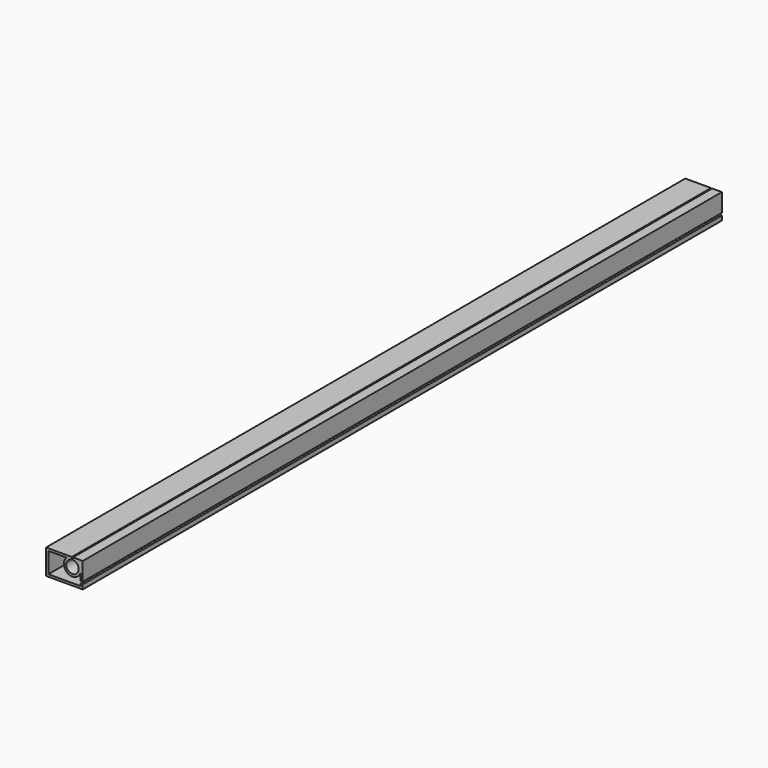
from build123d import *

# Parameters (mm, degrees)
F2_DEPTH = 1910
F7_DEPTH = 700
F9_DEPTH = 2000


with BuildPart() as f2:
    # F1 (on Front) → F2 (new body)
    with BuildSketch(Plane.XZ):
        with BuildLine():
            Line((7.5, 37.974085065), (7.5, 40))
            Line((7.5, 40), (-15, 40))
            Line((-15, 40), (-15, 37))
            Line((-15, 37), (-15, 31))
            Line((-15, 31), (-15, 29))
            Line((-15, 29), (-15, 26))
            Line((-15, 26), (-15, 24))
            Line((-15, 24), (-13, 24))
            Line((-13, 24), (-11, 24))
            Line((-11, 24), (-11, 26))
            Line((-11, 26), (-9, 26))
            Line((-9, 26), (-9, 20))
            Line((-9, 20), (-11, 20))
            Line((-11, 20), (-11, 22))
            Line((-11, 22), (-15, 22))
            Line((-15, 22), (-15, 18))
            Line((-15, 18), (-15, 7.7))
            Line((-15, 7.7), (-13, 7.7))
            Line((-13, 7.7), (-13, 11.4920835048))
            Line((-13, 11.4920835048), (-7, 11.4920835048))
            Line((-7, 11.4920835048), (-7, 3.7))
            Line((-7, 3.7), (-11, 3.7))
            Line((-11, 3.7), (-11, 5.7))
            Line((-11, 5.7), (-15, 5.7))
            Line((-15, 5.7), (-15, 3))
            Line((-15, 3), (-15, 0))
            Line((-15, 0), (-13, 0))
            Line((-13, 0), (-12, 0))
            Line((-12, 0), (-5, 0))
            Line((-5, 0), (-5, 13.4920835048))
            Line((-5, 13.4920835048), (-7, 13.4920835048))
            Line((-7, 13.4920835048), (-9.1588944197, 13.4920835048))
            Line((-9.1588944197, 13.4920835048), (-9.1588944197, 15.4920835048))
            Line((-9.1588944197, 15.4920835048), (1.5, 20))
            Line((1.5, 20), (10.8411055803, 15.4920835048))
            Line((10.8411055803, 15.4920835048), (10.8411055803, 13.4920835048))
            Line((10.8411055803, 13.4920835048), (8, 13.4920835048))
            Line((8, 13.4920835048), (8, 0))
            Line((8, 0), (17, 0))
            Line((17, 0), (17, 40))
            Line((17, 40), (8.5, 40))
            Line((8.5, 40), (8.5, 37.974085065))
            ThreePointArc((8.5, 37.974085065), (11.5604089792, 36.6859489396), (13.3185590744, 33.8691589154))
            Line((13.3185590744, 33.8691589154), (13.4318527537, 31.7073867348))
            ThreePointArc((13.4318527537, 31.7073867348), (4.0126863822, 28.7323088758), (7.5, 37.974085065))
        make_face()
        Polygon((-8.3634709733, 18), (-11.1588944197, 16.817744602), (-11.1588944197, 15.4920835048), (-11.1588944197, 13.4920835048), (-13, 13.4920835048), (-13, 18), align=None, mode=Mode.SUBTRACT)
        with BuildLine():
            Line((-13, 34), (-13, 37.9999987781))
            Line((-13, 37.9999987781), (2.9081163149, 37.9999987781))
            ThreePointArc((2.9081163149, 37.9999987781), (3.810445381, 26.2974906682), (15, 29.8410427327))
            Line((15, 29.8410427327), (15, 2))
            Line((15, 2), (10, 2))
            Line((10, 2), (10, 12))
            Line((10, 12), (12.8411055803, 12))
            Line((12.8411055803, 12), (12.8411055803, 16.7476188273))
            Line((12.8411055803, 16.7476188273), (1.5543358685, 22.194491783))
            Line((1.5543358685, 22.194491783), (-7, 18.5766464184))
            Line((-7, 18.5766464184), (-7, 28))
            Line((-7, 28), (-13, 28))
            Line((-13, 28), (-13, 34))
        make_face(mode=Mode.SUBTRACT)
        with BuildLine():
            Line((13.0918836851, 37.9999987781), (13.1020709306, 37.9999987781))
            Line((13.1020709306, 37.9999987781), (13.1025921338, 37.9900536295))
            ThreePointArc((13.1025921338, 37.9900536295), (13.0972403349, 37.9950288154), (13.0918836851, 37.9999987781))
        make_face(mode=Mode.SUBTRACT)
    extrude(amount=-F2_DEPTH)

    # F8 (on face) → F9 (cut)
    with BuildSketch(Plane.XZ):
        Polygon((17, 0), (17, 40), (-15, 40), (-15, 3), (-15, 0), align=None)
    extrude(amount=-F9_DEPTH, mode=Mode.SUBTRACT)


with BuildPart() as f7:
    # F6 (on face) → F7 (new body)
    with BuildSketch(Plane.XZ):
        with BuildLine():
            ThreePointArc((-25.5, 37.9771982231), (-25.951759356, 27.0133522571), (-26.596, 37.9675733099))
            Line((-26.596, 37.9675733099), (-26.596, 40))
            Line((-26.596, 40), (-49.096, 40))
            Line((-49.096, 40), (-49.096, 18))
            Line((-49.096, 18), (-17, 18))
            Line((-17, 18), (-17, 22))
            Line((-17, 22), (-19, 22))
            Line((-19, 22), (-19, 20))
            Line((-19, 20), (-47.096, 20))
            Line((-47.096, 20), (-47.096, 38))
            Line((-47.096, 38), (-31.0964418097, 38))
            ThreePointArc((-31.0964418097, 38), (-30.1932729017, 26.2962600635), (-19, 29.8323432536))
            Line((-19, 29.8323432536), (-19, 24))
            Line((-19, 24), (-17, 24))
            Line((-17, 24), (-17, 40))
            Line((-17, 40), (-25.5, 40))
            Line((-25.5, 40), (-25.5, 37.9771982231))
        make_face()
    extrude(amount=-F7_DEPTH)


solid = f7.part
